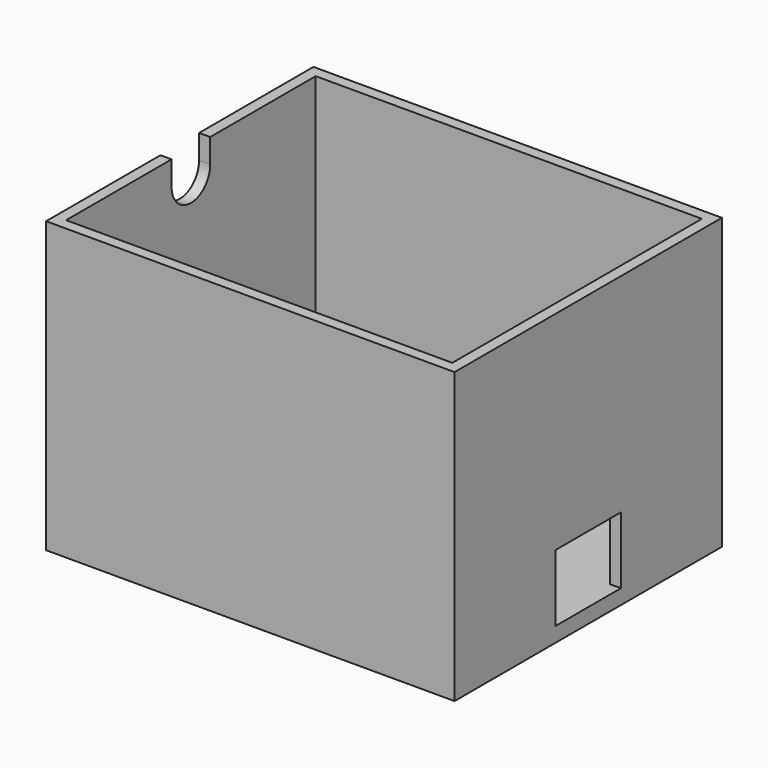
from build123d import *

# Parameters (mm, degrees)
F0_W     = 55
F0_H     = 45
F1_DEPTH = 2
F2_W     = 55
F2_H     = 45
F2_W_2   = 51.9999974966
F2_H_2   = 41.9999974966
F3_DEPTH = 37
F5_DEPTH = 25
F6_W     = 11
F6_H     = 9
F7_DEPTH = 25


with BuildPart() as f1:
    # F0 (on Top) → F1 (new body)
    with BuildSketch(Plane.XY):
        with Locations((27.5, 22.5)):
            Rectangle(F0_W, F0_H)
    extrude(amount=F1_DEPTH)

    # F2 (on face) → F3 (join)
    with BuildSketch(Plane.XY.offset(2)):
        with Locations((27.5, 22.5)):
            Rectangle(F2_W, F2_H)
        with Locations((27.5, 22.5)):
            Rectangle(F2_W_2, F2_H_2, mode=Mode.SUBTRACT)
    extrude(amount=F3_DEPTH)

    # F4 (on face) → F5 (cut)
    with BuildSketch(Plane(origin=(0, 0, 0), x_dir=(0, -1, 0), z_dir=(-1, 0, 0))):
        with BuildLine():
            Line((-25.75, 39), (-25.75, 35.75))
            ThreePointArc((-25.75, 35.75), (-22.5, 32.5), (-19.25, 35.75))
            Line((-19.25, 35.75), (-19.25, 39))
            Line((-19.25, 39), (-25.75, 39))
        make_face()
    extrude(amount=-F5_DEPTH, mode=Mode.SUBTRACT)

    # F6 (on face) → F7 (cut)
    with BuildSketch(Plane.YZ.offset(55)):
        with Locations((22.5, 6.5)):
            Rectangle(F6_W, F6_H)
    extrude(amount=-F7_DEPTH, mode=Mode.SUBTRACT)


solid = f1.part
